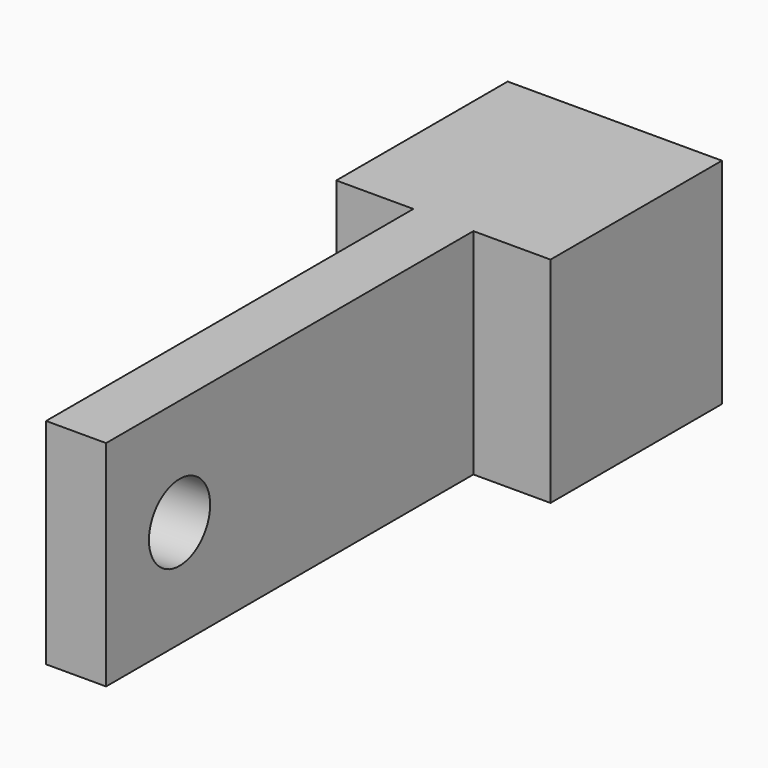
from build123d import *

# Parameters (mm, degrees)
F0_W     = 7
F0_H     = 7
F0_W_2   = 4.5
F0_H_2   = 4.5
F1_DEPTH = 5
F2_W     = 7
F2_H     = 7
F3_DEPTH = 2
F4_W     = 1.960302
F4_H     = 7
F5_DEPTH = 15
F6_R     = 1.25
F7_DEPTH = 25


with BuildPart() as f1:
    # F0 (on Front) → F1 (new body)
    with BuildSketch(Plane.XZ):
        Rectangle(F0_W, F0_H)
        Rectangle(F0_W_2, F0_H_2, mode=Mode.SUBTRACT)
    extrude(amount=F1_DEPTH)

    # F2 (on face) → F3 (join)
    with BuildSketch(Plane.XZ.offset(5)):
        Rectangle(F2_W, F2_H)
    extrude(amount=F3_DEPTH)

    # F4 (on face) → F5 (join)
    with BuildSketch(Plane.XZ.offset(7)):
        Rectangle(F4_W, F4_H)
        Rectangle(F4_W, F4_H)
    extrude(amount=F5_DEPTH)

    # F6 (on face) → F7 (cut)
    with BuildSketch(Plane(origin=(-0.980151, 0, 0), x_dir=(0, -1, 0), z_dir=(-1, 0, 0))):
        with Locations((19, 0)):
            Circle(F6_R)
    extrude(amount=-F7_DEPTH, mode=Mode.SUBTRACT)


solid = f1.part
